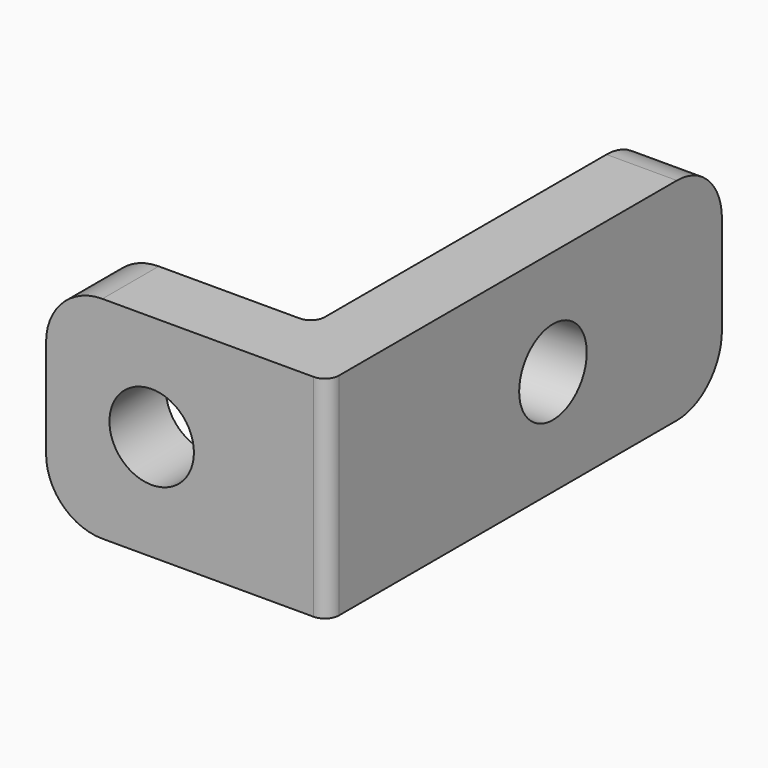
from build123d import *

# Parameters (mm, degrees)
F5_DEPTH = 15
F0_R     = 3
F1_DEPTH = 5
F7_R     = 4
F8_R     = 1
F2_R     = 1
F3_D     = 6


with BuildPart() as f5:
    # F4 (on Top) → F5 (new body)
    with BuildSketch(Plane.XY):
        Polygon((-2.5, -17.5), (2.5, -17.5), (2.5, -12.5), (2.5, 17.5), (-2.5, 17.5), (-2.5, -12.5), (-17.5, -12.5), (-17.5, -17.5), align=None)
    extrude(amount=F5_DEPTH)

    # F0 (on face) → F1 (cut)
    with BuildSketch(Plane(origin=(-2.5, 0, 0), x_dir=(0, -1, 0), z_dir=(-1, 0, 0))):
        with Locations((-2.5, 7.5)):
            Circle(F0_R)
    extrude(amount=-F1_DEPTH, mode=Mode.SUBTRACT)

    # F7
    f7_edges = [f5.edges().sort_by_distance(p)[0] for p in [
        (0, 17.5, 15),
        (0, 17.5, 0),
        (-17.5, -15, 0),
        (-17.5, -15, 15),
    ]]
    fillet(f7_edges, radius=F7_R)

    # F8
    f8_edges = [f5.edges().sort_by_distance(p)[0] for p in [
        (-2.5, -12.5, 7.5),
    ]]
    fillet(f8_edges, radius=F8_R)

    # F2
    f2_edges = [f5.edges().sort_by_distance(p)[0] for p in [
        (2.5, -17.5, 7.5),
    ]]
    fillet(f2_edges, radius=F2_R)

    # F3 (through all)
    with Locations(Plane(origin=(0, -12.5, 0), x_dir=(-1, 0, 0), z_dir=(0, 1, 0))):
        with Locations((10, 7.5)):
            Hole(F3_D / 2)


solid = f5.part
